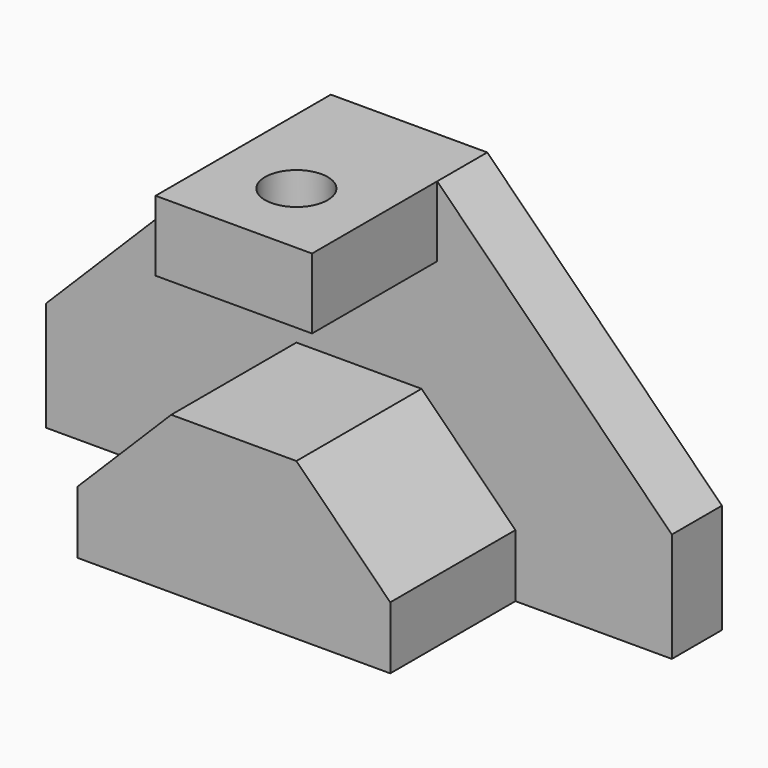
from build123d import *

# Parameters (mm, degrees)
F1_DEPTH = 12.7
F0_W     = 31.75
F0_H     = 14.2875
F2_DEPTH = 44.45
F3_R     = 6.35
F4_DEPTH = 25.4


with BuildPart() as f1:
    # F0 (on Front) → F1 (new body)
    with BuildSketch(Plane.XZ):
        Polygon((-60.109556, -13.391696), (-60.109556, -35.616696), (-28.359556, -35.616696), (-28.359556, -22.916696), (-9.309556, -3.866696), (16.090444, -3.866696), (35.140444, -22.916696), (35.140444, -35.616696), (66.890444, -35.616696), (66.890444, -13.391696), (19.265444, 34.233304), (19.265444, 19.945804), (-12.484556, 19.945804), (-12.484556, 34.233304), align=None)
    extrude(amount=F1_DEPTH)

    # F0 (on Front) → F2 (join)
    with BuildSketch(Plane.XZ):
        Polygon((-28.359556, -22.916696), (-28.359556, -35.616696), (-12.484556, -35.616696), (19.265444, -35.616696), (35.140444, -35.616696), (35.140444, -22.916696), (16.090444, -3.866696), (-9.309556, -3.866696), align=None)
        with Locations((3.390444, 27.089554)):
            Rectangle(F0_W, F0_H)
    extrude(amount=F2_DEPTH)

    # F3 (on face) → F4 (cut)
    with BuildSketch(Plane.XY.offset(34.233304)):
        with Locations((3.390444, -28.575)):
            Circle(F3_R)
    extrude(amount=-F4_DEPTH, mode=Mode.SUBTRACT)


solid = f1.part
